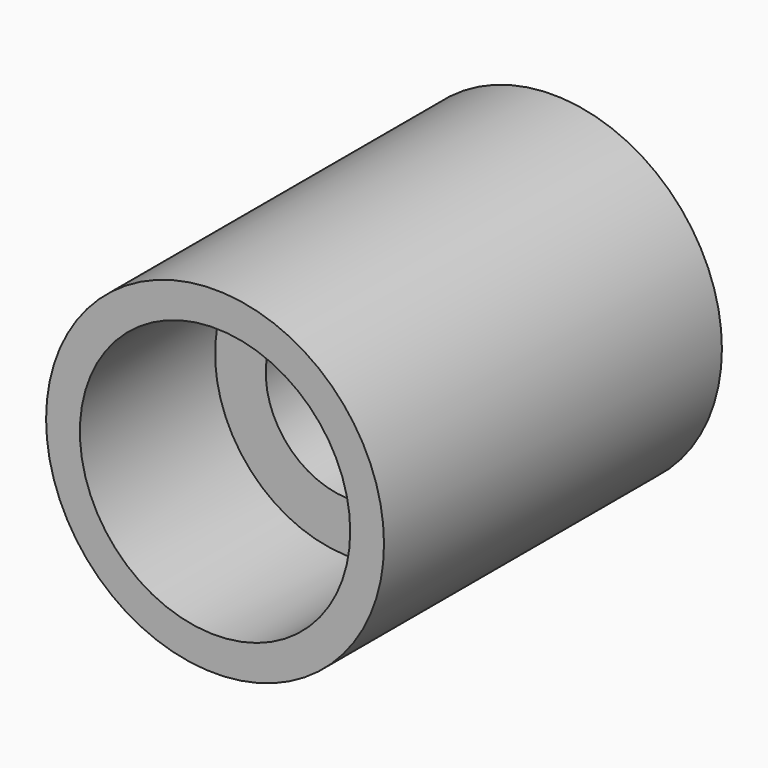
from build123d import *

# Parameters (mm, degrees)
F0_R     = 10
F1_DEPTH = 12.5


with BuildPart() as f1:
    # F0 (on Front) → F1 (new body, symmetric)
    with BuildSketch(Plane.XZ):
        Circle(F0_R)
    extrude(amount=F1_DEPTH, both=True)

    # F2 (on Top) → F3 (revolve, cut)
    with BuildSketch(Plane.XY):
        Polygon((5, 12.5), (0, 12.5), (0, -12.5), (8, -12.5), (8, -2.5), (5, -2.5), align=None)
    revolve(axis=Axis((0, 15.251015, 0), (0, 1, 0)), mode=Mode.SUBTRACT)


solid = f1.part
